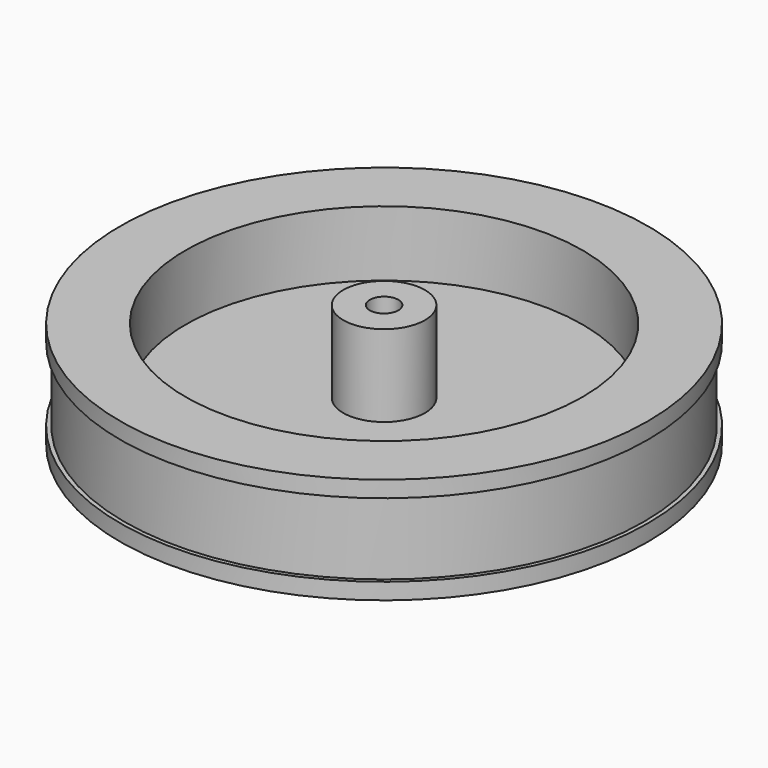
from build123d import *

# Parameters (mm, degrees)
F0_W     = 5
F0_H     = 10
F2_R     = 1.75
F3_DEPTH = 80


with BuildPart() as f1:
    # F0 (on Front) → F1 (revolve)
    with BuildSketch(Plane.XZ):
        with Locations((2.5, 10)):
            Rectangle(F0_W, F0_H)
        Polygon((0, 5), (0, 0), (32.3, 0), (32.3, 2), (31.8, 2), (31.8, 11), (32.3, 11), (32.3, 13), (24.3, 13), (24.3, 5), (5, 5), align=None)
    revolve(axis=Axis((0, 0, 10), (0, 0, 1)))

    # F2 (on face) → F3 (cut)
    with BuildSketch(Plane.XY.offset(15)):
        Circle(F2_R)
    extrude(amount=-F3_DEPTH, mode=Mode.SUBTRACT)


solid = f1.part
